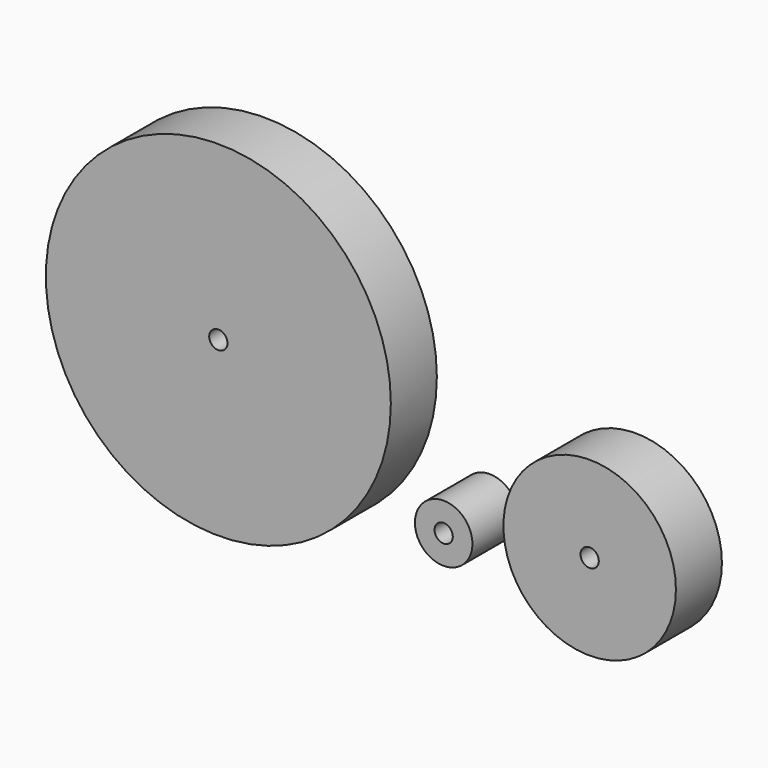
from build123d import *

# Parameters (mm, degrees)
F0_R     = 30
F0_R_2   = 1.5875
F0_R_3   = 15
F0_R_4   = 5
F1_DEPTH = 10


with BuildPart() as f1:
    # F0 (on Front) → F1 (new body)
    with BuildSketch(Plane.XZ):
        with Locations((-47.594372, 32.672893)):
            Circle(F0_R)
        with Locations((-47.594372, 32.672893)):
            Circle(F0_R_2, mode=Mode.SUBTRACT)
        with Locations((16.979616, 20.324083)):
            Circle(F0_R_3)
        with Locations((16.979616, 20.324083)):
            Circle(F0_R_2, mode=Mode.SUBTRACT)
        with Locations((-8.409719, 15.806074)):
            Circle(F0_R_4)
        with Locations((-8.409719, 15.806074)):
            Circle(F0_R_2, mode=Mode.SUBTRACT)
    extrude(amount=F1_DEPTH)


solid = f1.part
